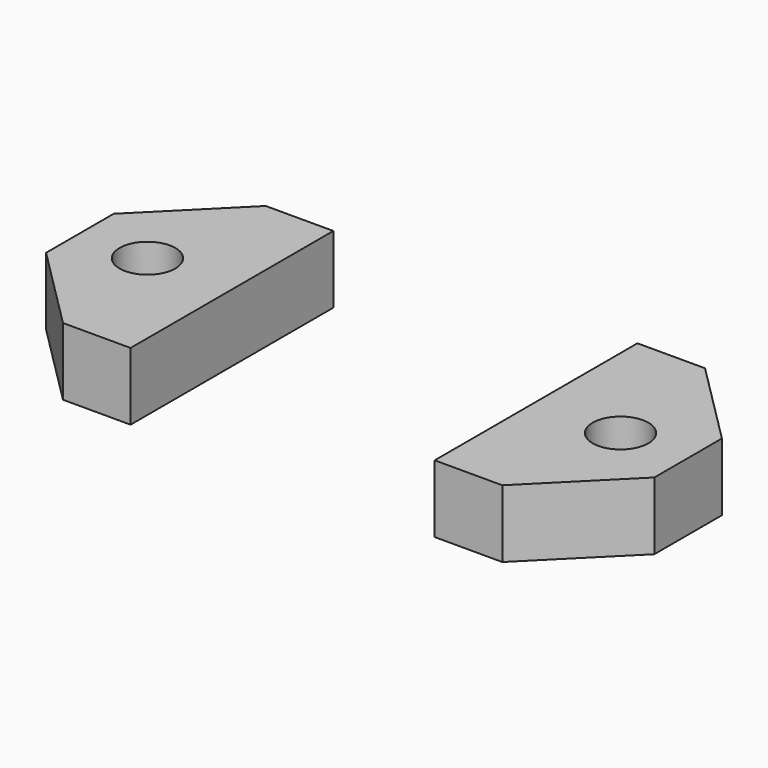
from build123d import *

# Parameters (mm, degrees)
CYLINDER_R        = 1.65
CYLINDER_DEPTH    = 10
CYLINDER001_R     = 1.65
CYLINDER001_DEPTH = 10
BOX_W             = 9
BOX_H             = 15
BOX_DEPTH         = 4
BOX001_W          = 9
BOX001_H          = 15
BOX001_DEPTH      = 4
CHAMFER_SIZE      = 5


with BuildPart() as cylinder:
    # Cylinder → Cylinder (new body)
    with BuildSketch(Plane(origin=(-14, 2.5, 0), x_dir=(1, 0, 0), z_dir=(0, 0, 1))):
        Circle(CYLINDER_R)
    extrude(amount=CYLINDER_DEPTH)


with BuildPart() as fusion:
    # Cylinder001 → Cylinder001 (new body)
    with BuildSketch(Plane(origin=(14, 2.5, 0), x_dir=(1, 0, 0), z_dir=(0, 0, 1))):
        Circle(CYLINDER001_R)
    extrude(amount=CYLINDER001_DEPTH)

    # Fusion: union Cylinder
    add(cylinder.part)


with BuildPart() as cube:
    # Box → Box (new body)
    with BuildSketch(Plane(origin=(9, -5, 0), x_dir=(1, 0, 0), z_dir=(0, 0, 1))):
        with Locations((4.5, 7.5)):
            Rectangle(BOX_W, BOX_H)
    extrude(amount=BOX_DEPTH)


with BuildPart() as cut:
    # Box001 → Box001 (new body)
    with BuildSketch(Plane(origin=(-18, -5, 0), x_dir=(1, 0, 0), z_dir=(0, 0, 1))):
        with Locations((4.5, 7.5)):
            Rectangle(BOX001_W, BOX001_H)
    extrude(amount=BOX001_DEPTH)

    # Fusion001: union Cube
    add(cube.part)

    # Chamfer
    chamfer_edges = [cut.edges().sort_by_distance(p)[0] for p in [
        (-18, -5, 2),
        (-18, 10, 2),
        (18, -5, 2),
        (18, 10, 2),
    ]]
    chamfer(chamfer_edges, length=CHAMFER_SIZE)

    # Cut: cut Fusion
    add(fusion.part, mode=Mode.SUBTRACT)


solid = cut.part
